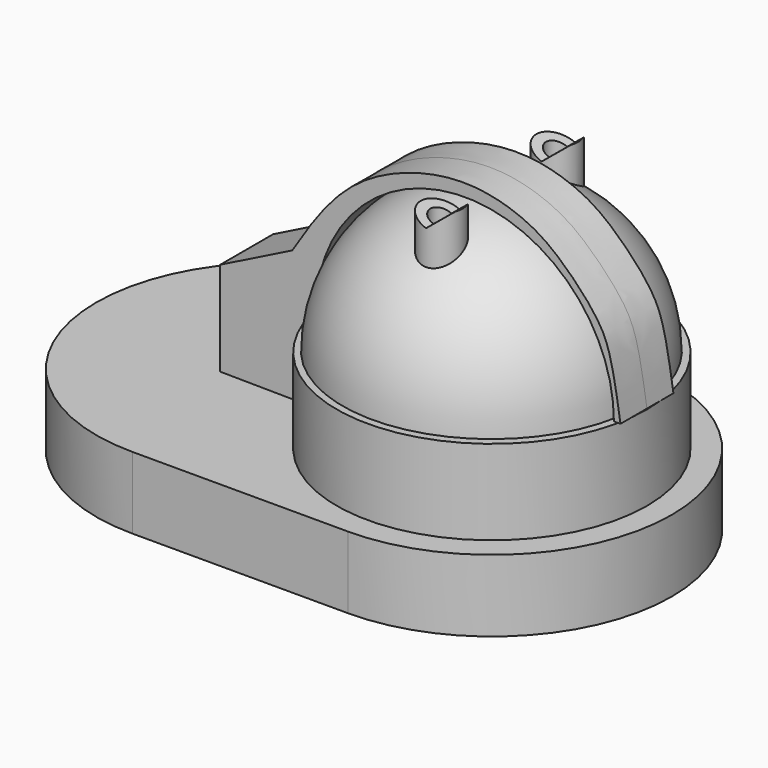
from build123d import *

# Parameters (mm, degrees)
F1_DEPTH  = 2.54
F2_R      = 5.4804135952
F3_DEPTH  = 2.9972
F7_DEPTH  = 1.1684
F9_R      = 0.7350598137
F10_DEPTH = 1.778
F11_R     = 0.3979192026
F12_DEPTH = 1.524
F15_DEPTH = 7.0866


with BuildPart() as f1:
    # F0 (on Top) → F1 (new body)
    with BuildSketch(Plane.XY):
        with BuildLine():
            Line((3.81, 6.35), (-3.81, 6.35))
            ThreePointArc((-3.81, 6.35), (-10.16, 0), (-3.81, -6.35))
            Line((-3.81, -6.35), (3.81, -6.35))
            ThreePointArc((3.81, -6.35), (10.16, 0), (3.81, 6.35))
        make_face()
    extrude(amount=F1_DEPTH)


with BuildPart() as f3:
    # F2 (on face) → F3 (new body)
    with BuildSketch(Plane.XY.offset(2.54)):
        with Locations((3.81, 0)):
            Circle(F2_R)
    extrude(amount=F3_DEPTH)


with BuildPart() as f5:
    # F4 (on Front) → F5 (revolve)
    with BuildSketch(Plane.XZ):
        with BuildLine():
            Line((3.7933739368, 5.5296733044), (3.7933739368, 10.781909572))
            ThreePointArc((3.7933739368, 10.781909572), (0.0906030305, 9.2546529588), (-1.4587684225, 5.5610810767))
            Line((-1.4587684225, 5.5610810767), (3.7933739368, 5.5296733044))
        make_face()
    revolve(axis=Axis((3.7933739368, 0, 8.1557914382), (0, 0, -1)))

    # F9 (on offset) → F10 (join)
    with BuildSketch(Plane.XY.offset(9.5758)):
        with Locations((4.0749050677, 2.5523174554)):
            Circle(F9_R)
        with Locations((4.0749050677, -2.5523174554)):
            Circle(F9_R)
    extrude(amount=F10_DEPTH)

    # F11 (on face) → F12 (cut)
    with BuildSketch(Plane.XY.offset(11.3538)):
        with Locations((4.0749050677, -2.5523174554)):
            Circle(F11_R)
        with Locations((4.0749050677, 2.5523174554)):
            Circle(F11_R)
    extrude(amount=-F12_DEPTH, mode=Mode.SUBTRACT)


with BuildPart() as f7:
    # F6 (on Front) → F7 (new body, symmetric)
    with BuildSketch(Plane.XZ):
        with BuildLine():
            Line((-4.8488308676, 2.587988507), (-1.6671707854, 2.5555151515))
            Line((-1.6671707854, 2.5555151515), (-1.6638021916, 5.5491072126))
            Line((-1.6638021916, 5.5491072126), (-1.4685010538, 5.5488874464))
            Line((-1.4685010538, 5.5488874464), (-1.4685010538, 5.5696652271))
            ThreePointArc((-1.4685010538, 5.5696652271), (3.7956221495, 10.8277949039), (9.0537518263, 5.5636717007))
            Line((9.0537518263, 5.5636717007), (9.2857042328, 5.5636717007))
            add(Edge.make_bspline(
                [(-2.306267852, 7.1841594763), (-1.6486831843, 8.2271512611), (-0.3298960757, 10.318872963), (3.3954517777, 11.5555770619), (5.8113106779, 10.9362546506), (7.0758411721, 10.1294418033), (8.4639189734, 8.6900865807), (8.9699038236, 7.6097738923), (9.1712581853, 6.3051789998), (9.2857042328, 5.5636717007)],
                knots=[0, 0, 0, 0, 0.1819080402, 0.3648168673, 0.5108915852, 0.6277563048, 0.7592698915, 0.8631735157, 1, 1, 1, 1], degree=3))
            Line((-2.306267852, 7.1841594763), (-4.8488308676, 5.9128780849))
            Line((-4.8488308676, 5.9128780849), (-4.8488308676, 2.587988507))
        make_face()
    extrude(amount=F7_DEPTH, both=True)


with BuildPart() as f15:
    # F14 (on offset) → F15 (new body, symmetric)
    with BuildSketch(Plane.XZ.offset(2.54)):
        Polygon((4.1112513281, 10.8212800696), (4.7835633159, 11.3713536412), (3.3220620826, 11.3955037668), (3.3220620826, 11.1317811604), align=None)
    extrude(amount=F15_DEPTH, both=True)


with BuildPart() as f5_1:
    add(f5.part)

    # F16: cut F15
    add(f15.part, mode=Mode.SUBTRACT)


solid = Compound([f1.part, f3.part, f7.part, f5_1.part])
